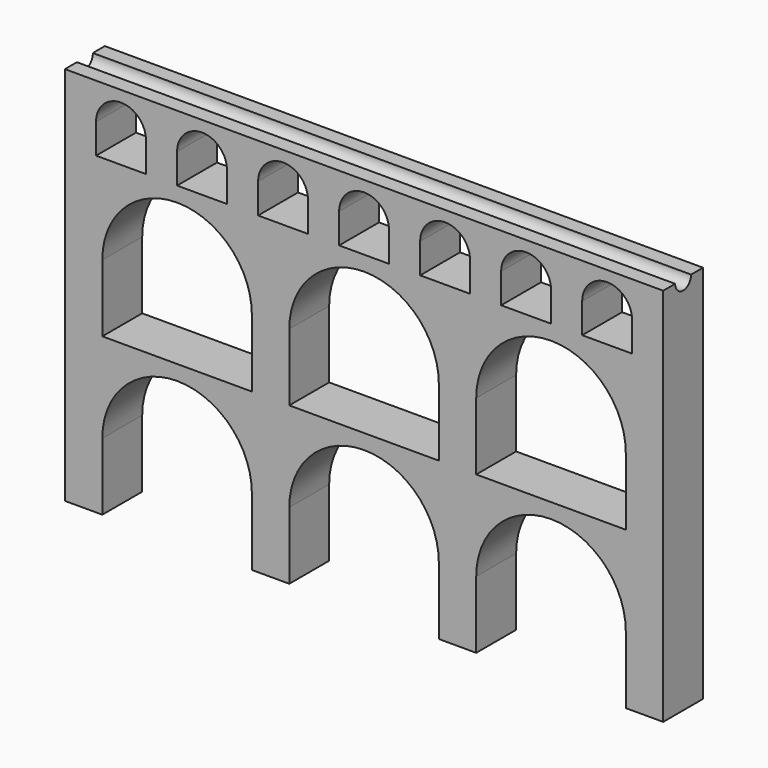
from build123d import *

# Parameters (mm, degrees)
F0_W     = 19.05
F0_H     = 34.29
F0_W_2   = 15.875
F0_H_2   = 15.24
F1_DEPTH = 25.4
F2_R     = 5.08
F3_DEPTH = 304.801


with BuildPart() as f1:
    # F0 (on Front) → F1 (new body)
    with BuildSketch(Plane.XZ):
        with BuildLine():
            Line((-1391.752841, -482.426923), (-1391.752841, -516.716923))
            Line((-1391.752841, -516.716923), (-1372.702841, -516.716923))
            Line((-1372.702841, -516.716923), (-1372.702841, -482.426923))
            ThreePointArc((-1372.702841, -482.426923), (-1334.602841, -444.326923), (-1296.502841, -482.426923))
            Line((-1296.502841, -482.426923), (-1296.502841, -516.716923))
            Line((-1296.502841, -516.716923), (-1277.452841, -516.716923))
            Line((-1277.452841, -516.716923), (-1277.452841, -482.426923))
            ThreePointArc((-1277.452841, -482.426923), (-1239.352841, -444.326923), (-1201.252841, -482.426923))
            Line((-1201.252841, -482.426923), (-1201.252841, -516.716923))
            Line((-1201.252841, -516.716923), (-1182.202841, -516.716923))
            Line((-1182.202841, -516.716923), (-1182.202841, -482.426923))
            Line((-1182.202841, -482.426923), (-1182.202841, -436.706923))
            Line((-1182.202841, -436.706923), (-1201.252841, -436.706923))
            Line((-1201.252841, -436.706923), (-1277.452841, -436.706923))
            Line((-1277.452841, -436.706923), (-1296.502841, -436.706923))
            Line((-1296.502841, -436.706923), (-1372.702841, -436.706923))
            Line((-1372.702841, -436.706923), (-1391.752841, -436.706923))
            Line((-1391.752841, -436.706923), (-1467.952841, -436.706923))
            Line((-1467.952841, -436.706923), (-1487.002841, -436.706923))
            Line((-1487.002841, -436.706923), (-1487.002841, -482.426923))
            Line((-1487.002841, -482.426923), (-1487.002841, -516.716923))
            Line((-1487.002841, -516.716923), (-1467.952841, -516.716923))
            Line((-1467.952841, -516.716923), (-1467.952841, -482.426923))
            ThreePointArc((-1467.952841, -482.426923), (-1429.852841, -444.326923), (-1391.752841, -482.426923))
        make_face()
        with Locations((-1477.477841, -419.561923)):
            Rectangle(F0_W, F0_H)
        with BuildLine():
            Line((-1487.002841, -356.696923), (-1487.002841, -402.416923))
            Line((-1487.002841, -402.416923), (-1467.952841, -402.416923))
            ThreePointArc((-1467.952841, -402.416923), (-1429.852841, -364.316923), (-1391.752841, -402.416923))
            Line((-1391.752841, -402.416923), (-1372.702841, -402.416923))
            ThreePointArc((-1372.702841, -402.416923), (-1334.602841, -364.316923), (-1296.502841, -402.416923))
            Line((-1296.502841, -402.416923), (-1277.452841, -402.416923))
            ThreePointArc((-1277.452841, -402.416923), (-1239.352841, -364.316923), (-1201.252841, -402.416923))
            Line((-1201.252841, -402.416923), (-1182.202841, -402.416923))
            Line((-1182.202841, -402.416923), (-1182.202841, -356.696923))
            Line((-1182.202841, -356.696923), (-1198.077841, -356.696923))
            Line((-1198.077841, -356.696923), (-1223.477841, -356.696923))
            Line((-1223.477841, -356.696923), (-1239.352841, -356.696923))
            Line((-1239.352841, -356.696923), (-1264.752841, -356.696923))
            Line((-1264.752841, -356.696923), (-1280.627841, -356.696923))
            Line((-1280.627841, -356.696923), (-1306.027841, -356.696923))
            Line((-1306.027841, -356.696923), (-1321.902841, -356.696923))
            Line((-1321.902841, -356.696923), (-1347.302841, -356.696923))
            Line((-1347.302841, -356.696923), (-1363.177841, -356.696923))
            Line((-1363.177841, -356.696923), (-1388.577841, -356.696923))
            Line((-1388.577841, -356.696923), (-1404.452841, -356.696923))
            Line((-1404.452841, -356.696923), (-1429.852841, -356.696923))
            Line((-1429.852841, -356.696923), (-1445.727841, -356.696923))
            Line((-1445.727841, -356.696923), (-1471.127841, -356.696923))
            Line((-1471.127841, -356.696923), (-1487.002841, -356.696923))
        make_face()
        with Locations((-1479.065341, -349.076923)):
            Rectangle(F0_W_2, F0_H_2)
        with BuildLine():
            Line((-1487.002841, -323.04673), (-1487.002841, -341.456923))
            Line((-1487.002841, -341.456923), (-1471.127841, -341.456923))
            ThreePointArc((-1471.127841, -341.456923), (-1458.427841, -328.756923), (-1445.727841, -341.456923))
            Line((-1445.727841, -341.456923), (-1429.852841, -341.456923))
            ThreePointArc((-1429.852841, -341.456923), (-1417.152841, -328.756923), (-1404.452841, -341.456923))
            Line((-1404.452841, -341.456923), (-1388.577841, -341.456923))
            ThreePointArc((-1388.577841, -341.456923), (-1375.877841, -328.756923), (-1363.177841, -341.456923))
            Line((-1363.177841, -341.456923), (-1347.302841, -341.456923))
            ThreePointArc((-1347.302841, -341.456923), (-1334.602841, -328.756923), (-1321.902841, -341.456923))
            Line((-1321.902841, -341.456923), (-1306.027841, -341.456923))
            ThreePointArc((-1306.027841, -341.456923), (-1293.327841, -328.756923), (-1280.627841, -341.456923))
            Line((-1280.627841, -341.456923), (-1264.752841, -341.456923))
            ThreePointArc((-1264.752841, -341.456923), (-1252.052841, -328.756923), (-1239.352841, -341.456923))
            Line((-1239.352841, -341.456923), (-1223.477841, -341.456923))
            ThreePointArc((-1223.477841, -341.456923), (-1210.777841, -328.756923), (-1198.077841, -341.456923))
            Line((-1198.077841, -341.456923), (-1182.202841, -341.456923))
            Line((-1182.202841, -341.456923), (-1182.202841, -323.312718))
            Line((-1182.202841, -323.312718), (-1487.002841, -323.04673))
        make_face()
        with Locations((-1191.727841, -419.561923)):
            Rectangle(F0_W, F0_H)
        with Locations((-1190.140341, -349.076923)):
            Rectangle(F0_W_2, F0_H_2)
        with Locations((-1382.227841, -419.561923)):
            Rectangle(F0_W, F0_H)
        with Locations((-1286.977841, -419.561923)):
            Rectangle(F0_W, F0_H)
        with Locations((-1396.515341, -349.076923)):
            Rectangle(F0_W_2, F0_H_2)
        with Locations((-1355.240341, -349.076923)):
            Rectangle(F0_W_2, F0_H_2)
        with Locations((-1313.965341, -349.076923)):
            Rectangle(F0_W_2, F0_H_2)
        with Locations((-1272.690341, -349.076923)):
            Rectangle(F0_W_2, F0_H_2)
        with Locations((-1437.790341, -349.076923)):
            Rectangle(F0_W_2, F0_H_2)
        with Locations((-1231.415341, -349.076923)):
            Rectangle(F0_W_2, F0_H_2)
    extrude(amount=F1_DEPTH)

    # F2 (on face) → F3 (cut, through all)
    with BuildSketch(Plane.YZ.offset(-1182.202841)):
        with Locations((-12.7, -323.312718)):
            Circle(F2_R)
    extrude(amount=-F3_DEPTH, mode=Mode.SUBTRACT)


solid = f1.part
